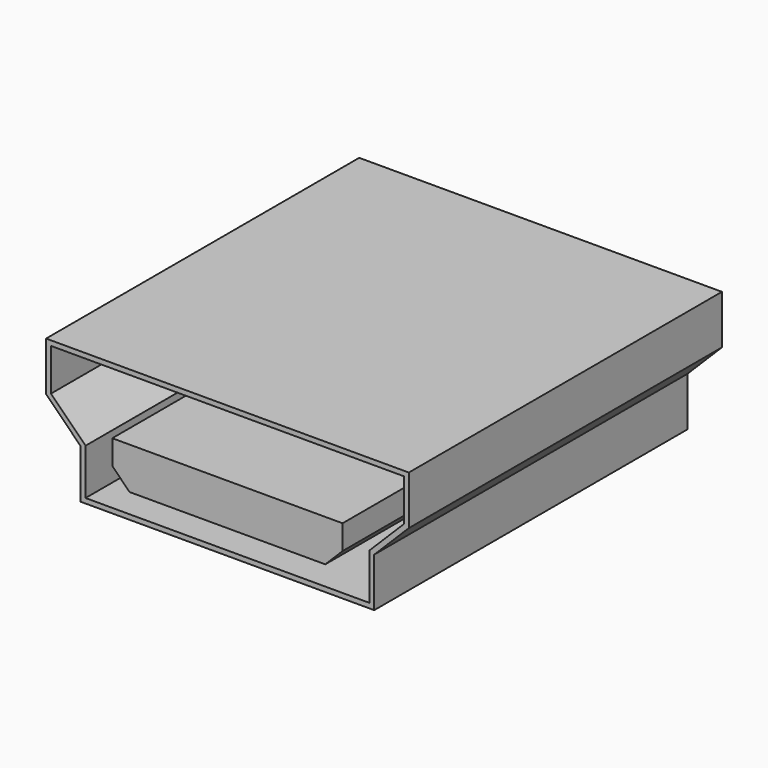
from build123d import *

# Parameters (mm, degrees)
F1_DEPTH = 8
F3_DEPTH = 8


with BuildPart() as f1:
    # F0 (on Front) → F1 (new body)
    with BuildSketch(Plane.XZ):
        Polygon((1.960831, 27.912384), (1.960831, 26.912384), (7.960831, 26.912384), (7.960831, 27.912384), (8.667937, 28.619491), (8.667937, 29.619491), (1.253724, 29.619491), (1.253724, 28.619491), align=None)
    extrude(amount=-F1_DEPTH)

    # F2 (on face) → F3 (cut)
    with BuildSketch(Plane.XZ):
        Polygon((1.353724, 28.660912), (2.060831, 27.953805), (2.060831, 27.012384), (7.860831, 27.012384), (7.860831, 27.953805), (8.567937, 28.660912), (8.567937, 29.519491), (1.353724, 29.519491), align=None)
        Polygon((6.960384, 27.412384), (2.960384, 27.412384), (2.606831, 27.765937), (2.606831, 28.265937), (7.313937, 28.265937), (7.313937, 27.765937), align=None, mode=Mode.SUBTRACT)
    extrude(amount=-F3_DEPTH, mode=Mode.SUBTRACT)


solid = f1.part
